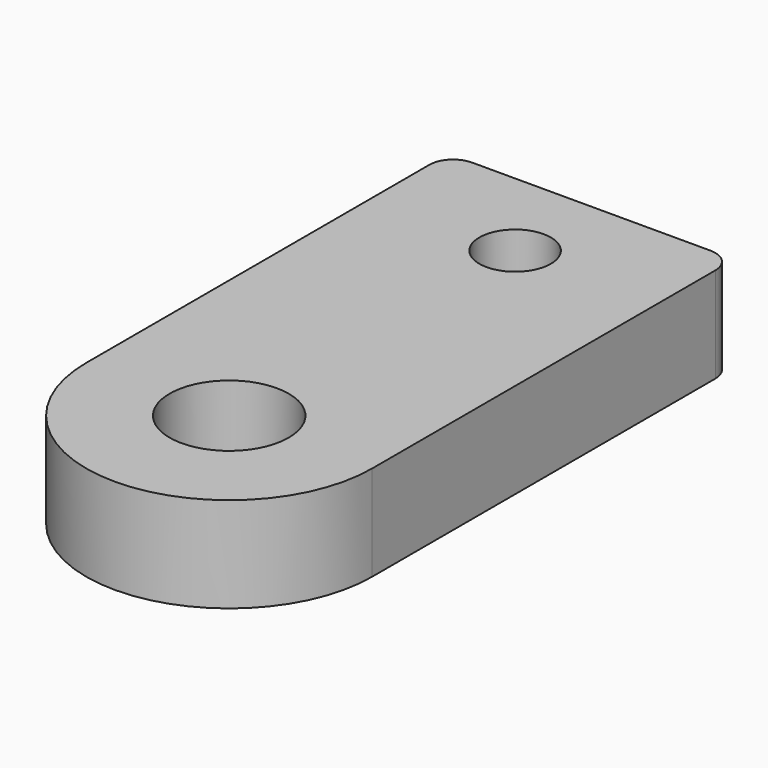
from build123d import *

# Parameters (mm, degrees)
SKETCH_R   = 2.5
SKETCH_R_2 = 1.5
PAD_DEPTH  = 4
FILLET_R   = 1


with BuildPart() as part:
    # Sketch → Pad (new body)
    with BuildSketch(Plane.XY):
        with BuildLine():
            ThreePointArc((-6, 0), (0, -6), (6, 0))
            Line((6, 0), (6, 19))
            Line((6, 19), (-6, 19))
            Line((-6, 0), (-6, 19))
        make_face()
        Circle(SKETCH_R, mode=Mode.SUBTRACT)
        with Locations((0, 15)):
            Circle(SKETCH_R_2, mode=Mode.SUBTRACT)
    extrude(amount=PAD_DEPTH)

    # Fillet
    fillet_edges = [part.edges().sort_by_distance(p)[0] for p in [
        (-6, 19, 2),
        (6, 19, 2),
    ]]
    fillet(fillet_edges, radius=FILLET_R)


solid = part.part
